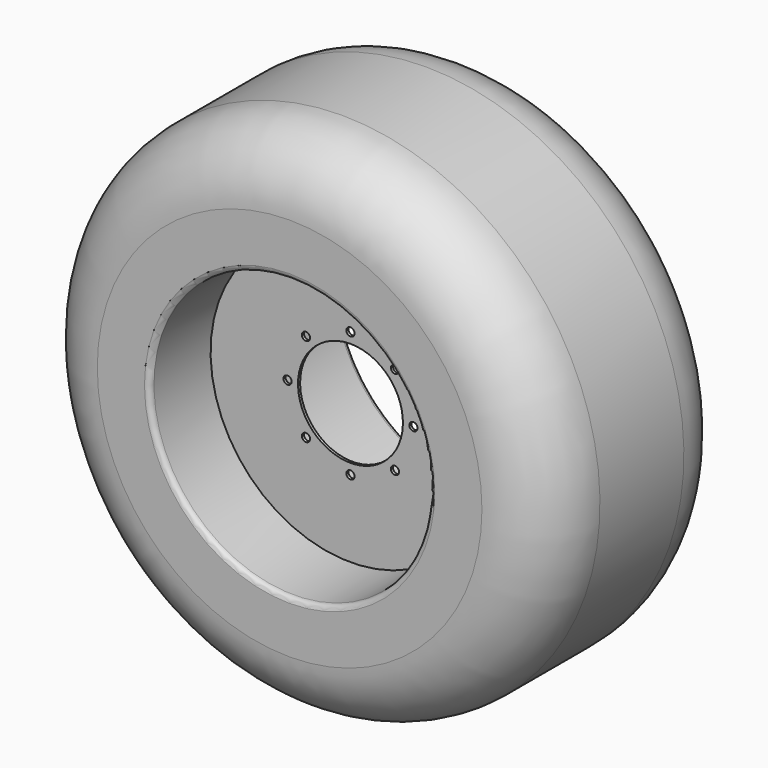
from build123d import *

# Parameters (mm, degrees)
F2_R     = 250
F3_R     = 20
F4_R     = 15.5
F5_DEPTH = 25


with BuildPart() as f1:
    # F0 (on Right) → F1 (revolve)
    with BuildSketch(Plane.YZ):
        Polygon((0, 533.4), (0, 200), (10, 200), (10, 533.4), (610, 533.4), (610, 983.4), (-290, 983.4), (-290, 533.4), align=None)
    revolve(axis=Axis((0, 333.333626, 0), (0, 1, 0)))

    # F2
    f2_edges = [f1.edges().sort_by_distance(p)[0] for p in [
        (0, -290, -983.4),
        (0, 610, -983.4),
    ]]
    fillet(f2_edges, radius=F2_R)

    # F3
    f3_edges = [f1.edges().sort_by_distance(p)[0] for p in [
        (0, -290, -533.4),
        (0, 610, -533.4),
    ]]
    fillet(f3_edges, radius=F3_R)

    # F4 (on face) → F5 (cut)
    with BuildSketch(Plane.XZ):
        with Locations((0, 240)):
            Circle(F4_R)
        with Locations((-169.705627, 169.705627)):
            Circle(F4_R)
        with Locations((-240, 0)):
            Circle(F4_R)
        with Locations((-169.705627, -169.705627)):
            Circle(F4_R)
        with Locations((0, -240)):
            Circle(F4_R)
        with Locations((169.705627, -169.705627)):
            Circle(F4_R)
        with Locations((240, 0)):
            Circle(F4_R)
        with Locations((169.705627, 169.705627)):
            Circle(F4_R)
    extrude(amount=-F5_DEPTH, mode=Mode.SUBTRACT)


solid = f1.part
